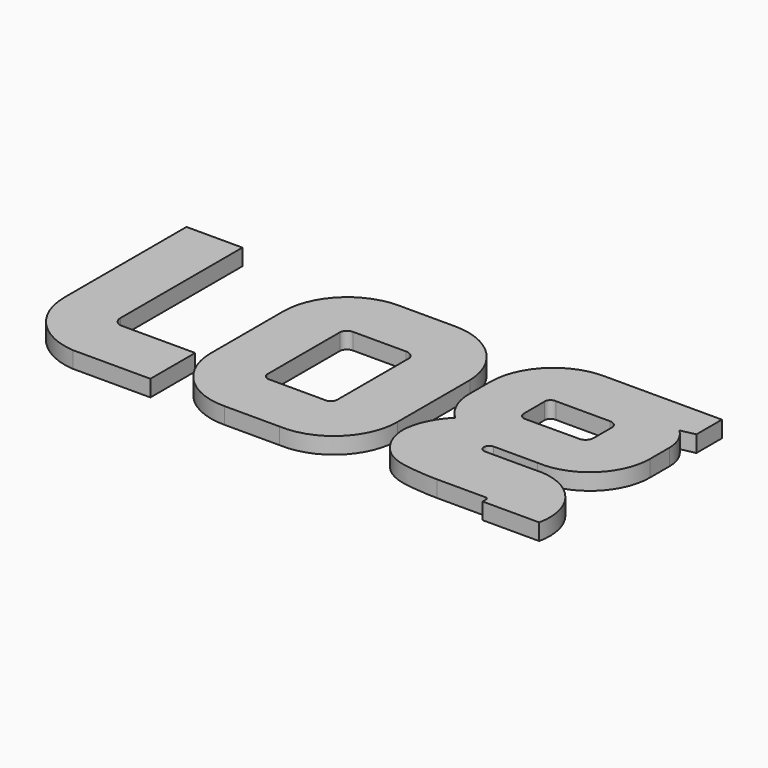
from build123d import *

# Parameters (mm, degrees)
F1_DEPTH = 5


with BuildPart() as f1:
    # F0 (on Top) → F1 (new body)
    with BuildSketch(Plane.XY):
        with BuildLine():
            Line((69.0254477669, 36.478952693), (52.5922080591, 36.478952693))
            ThreePointArc((52.5922080591, 36.478952693), (38.9148610046, 30.9606208127), (33.2290071434, 17.3520619228))
            Line((33.2290071434, 17.3520619228), (33.2290071434, 9.2449376035))
            ThreePointArc((33.2290071434, 9.2449376035), (34.5445928815, 2.939687304), (38.2718139765, -2.3133851381))
            add(Edge.make_bspline(
                [(38.2718139765, -2.3133851381), (35.0478488895, -5.3165623155), (30.2592020644, -14.7034185415), (36.0939314958, -25.985295981), (43.8425110573, -29.4666625115), (53.2125632474, -29.6906994828), (54.6381439599, -29.7151729536)],
                knots=[0, 0, 0, 0, 0.2816521908, 0.5342188674, 0.7608236544, 1, 1, 1, 1], degree=3))
            Line((54.6381439599, -29.7151729536), (69.3701195319, -29.7151729536))
            ThreePointArc((69.3701195319, -29.7151729536), (69.9733642707, -29.9570802107), (70.2423343717, -30.548754463))
            Line((70.2423343717, -30.548754463), (70.2272322525, -31.8442919593))
            Line((70.2272322525, -31.8442919593), (87.4116472257, -31.8442919593))
            ThreePointArc((87.4116472257, -31.8442919593), (83.5502679976, -17.0809901044), (69.3701195319, -11.4428414106))
            Line((69.3701195319, -11.4428414106), (54.6381439599, -11.4428414106))
            ThreePointArc((54.6381439599, -11.4428414106), (52.9944971814, -9.8002078968), (54.6381439599, -8.157574383))
            Line((54.6381439599, -8.157574383), (68.0254477647, -8.1658298467))
            ThreePointArc((68.0254477647, -8.1658298467), (81.7618760668, -3.2815502715), (87.5694662906, 10.0907174965))
            Line((87.5694662906, 10.0907174965), (87.5694662906, 17.4134502913))
            ThreePointArc((87.5694662906, 17.4134502913), (86.5919834102, 22.0215377909), (83.8278918088, 25.8359500398))
            Line((83.8278918088, 25.8359500398), (88.2823672034, 26.7858023203))
            Line((88.2823672034, 26.7858023203), (88.2823672034, 36.478952693))
            Line((88.2823672034, 36.478952693), (69.0254477669, 36.478952693))
        make_face()
        with BuildLine():
            ThreePointArc((49.6204711441, 17.3520619228), (50.1543003184, 18.8122592839), (51.6403470435, 19.2692221399))
            Line((51.6403470435, 19.2692221399), (68.0254477647, 19.2692221399))
            ThreePointArc((68.0254477647, 19.2692221399), (69.5445994795, 18.751368254), (70.4311490297, 17.4134502913))
            Line((70.4311490297, 17.4134502913), (70.4311490297, 10.0907174965))
            ThreePointArc((70.4311490297, 10.0907174965), (69.8152683538, 8.4569986346), (68.2741651015, 7.6364213425))
            Line((68.2741651015, 7.6364213425), (51.8411074036, 7.559078022))
            ThreePointArc((51.8411074036, 7.559078022), (50.2834373163, 8.0849521369), (49.6204711441, 9.5893973968))
            Line((49.6204711441, 9.5893973968), (49.6204711441, 17.3520619228))
        make_face(mode=Mode.SUBTRACT)
    extrude(amount=F1_DEPTH)


with BuildPart() as f1b:
    # F0 (on Top) → F1, piece 2 (new body)
    with BuildSketch(Plane.XY):
        with BuildLine():
            Line((8.8582125176, 34.3654769861), (-8.3125179988, 34.3654769861))
            ThreePointArc((-8.3125179988, 34.3654769861), (-22.0534674563, 28.6737891725), (-27.7451546266, 14.9328394486))
            Line((-27.7451546266, 14.9328394486), (-27.7451546266, -12.5504608341))
            ThreePointArc((-27.7451546266, -12.5504608341), (-22.0203793172, -26.2670700833), (-8.2431147925, -31.8442919593))
            Line((-8.2431147925, -31.8442919593), (8.5522345715, -31.8442919593))
            ThreePointArc((8.5522345715, -31.8442919593), (22.8829501137, -26.5764477151), (28.9154689034, -12.5504608341))
            Line((28.9154689034, -12.5504608341), (28.9154689034, 15.0022408353))
            ThreePointArc((28.9154689034, 15.0022408353), (22.797621113, 28.7348101355), (8.8582125176, 34.3654769861))
        make_face()
        with BuildLine():
            ThreePointArc((-10.533391484, 14.9328394486), (-9.8346291897, 16.4129933063), (-8.3125179988, 17.014908341))
            Line((-8.3125179988, 17.014908341), (7.858212517, 17.014908341))
            ThreePointArc((7.858212517, 17.014908341), (9.5726739072, 16.4588030878), (10.6343034638, 15.0022408353))
            Line((10.6343034638, 15.0022408353), (10.6343034638, -12.5504608341))
            ThreePointArc((10.6343034638, -12.5504608341), (10.0154939421, -13.9744765885), (8.5522345714, -14.4937242239))
            Line((8.5522345714, -14.4937242239), (-8.2431147927, -14.4937242239))
            ThreePointArc((-8.2431147927, -14.4937242239), (-9.8380944274, -14.0522630785), (-10.533391484, -12.5504608341))
            Line((-10.533391484, -12.5504608341), (-10.533391484, 14.9328394486))
        make_face(mode=Mode.SUBTRACT)
    extrude(amount=F1_DEPTH)


with BuildPart() as f1c:
    # F0 (on Top) → F1, piece 3 (new body)
    with BuildSketch(Plane.XY):
        with BuildLine():
            Line((-55.7802731142, 34.4349348745), (-72.7802731142, 34.4349348745))
            Line((-72.7802731142, 34.4349348745), (-72.7802731142, -11.925838347))
            ThreePointArc((-72.7802731142, -11.925838347), (-67.4337374671, -25.5260479515), (-54.2568282176, -31.8442919593))
            Line((-54.2568282176, -31.8442919593), (-30.7224924042, -31.8442919593))
            Line((-30.7224924042, -31.8442919593), (-30.7224924042, -14.8442919593))
            Line((-30.7224924042, -14.8442919593), (-53.4240006607, -14.8442919593))
            ThreePointArc((-53.4240006607, -14.8442919593), (-55.1176780429, -13.8012977149), (-55.7802731142, -11.925838347))
            Line((-55.7802731142, -11.925838347), (-55.7802731142, 34.4349348745))
        make_face()
    extrude(amount=F1_DEPTH)


solid = Compound([f1.part, f1b.part, f1c.part])
